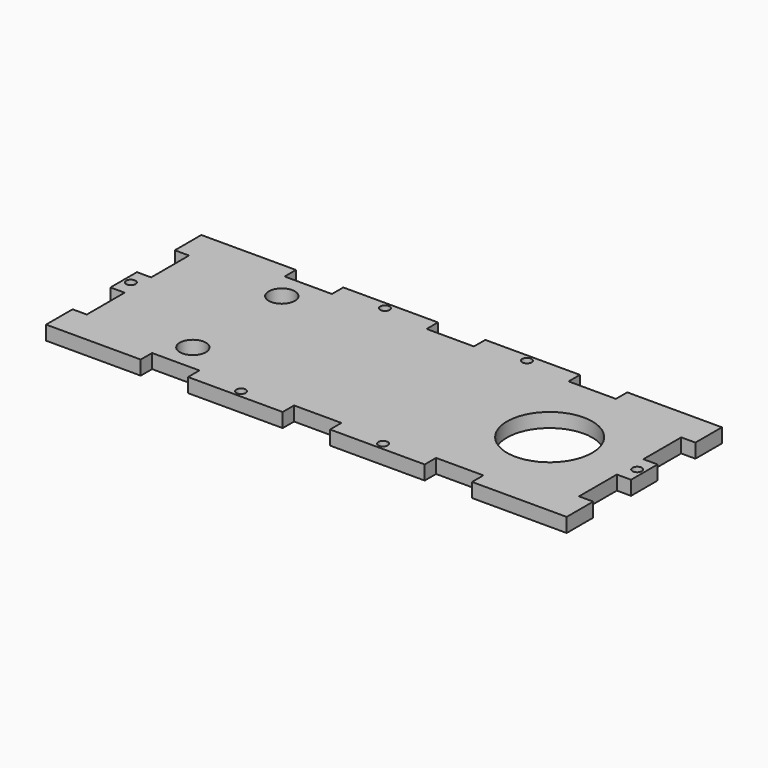
from build123d import *

# Parameters (mm, degrees)
F0_R     = 2.75
F0_R_2   = 1
F0_R_3   = 9
F1_DEPTH = 3


with BuildPart() as f1:
    # F0 (on Top) → F1 (new body)
    with BuildSketch(Plane.XY):
        Polygon((0, 7), (0, 0), (20, 0), (20, 3), (30, 3), (30, 0), (50, 0), (50, 3), (55, 3), (60, 3), (60, 0), (80, 0), (80, 3), (90, 3), (90, 0), (110, 0), (110, 7), (107, 7), (107, 17), (110, 17), (110, 24), (107, 24), (107, 34), (110, 34), (110, 41), (90, 41), (90, 38), (80, 38), (80, 41), (60, 41), (60, 38), (55, 38), (50, 38), (50, 41), (30, 41), (30, 38), (20, 38), (20, 41), (0, 41), (0, 34), (3, 34), (3, 24), (0, 24), (0, 17), (3, 17), (3, 7), align=None)
        with Locations((24.007251, 8.75)):
            Circle(F0_R, mode=Mode.SUBTRACT)
        with Locations((40, 1.5)):
            Circle(F0_R_2, mode=Mode.SUBTRACT)
        with Locations((70, 1.5)):
            Circle(F0_R_2, mode=Mode.SUBTRACT)
        with Locations((1.5, 20.5)):
            Circle(F0_R_2, mode=Mode.SUBTRACT)
        with Locations((24.007251, 32.25)):
            Circle(F0_R, mode=Mode.SUBTRACT)
        with Locations((40, 39.5)):
            Circle(F0_R_2, mode=Mode.SUBTRACT)
        with Locations((90, 20.5)):
            Circle(F0_R_3, mode=Mode.SUBTRACT)
        with Locations((108.5, 20.5)):
            Circle(F0_R_2, mode=Mode.SUBTRACT)
        with Locations((70, 39.5)):
            Circle(F0_R_2, mode=Mode.SUBTRACT)
    extrude(amount=F1_DEPTH)


solid = f1.part
